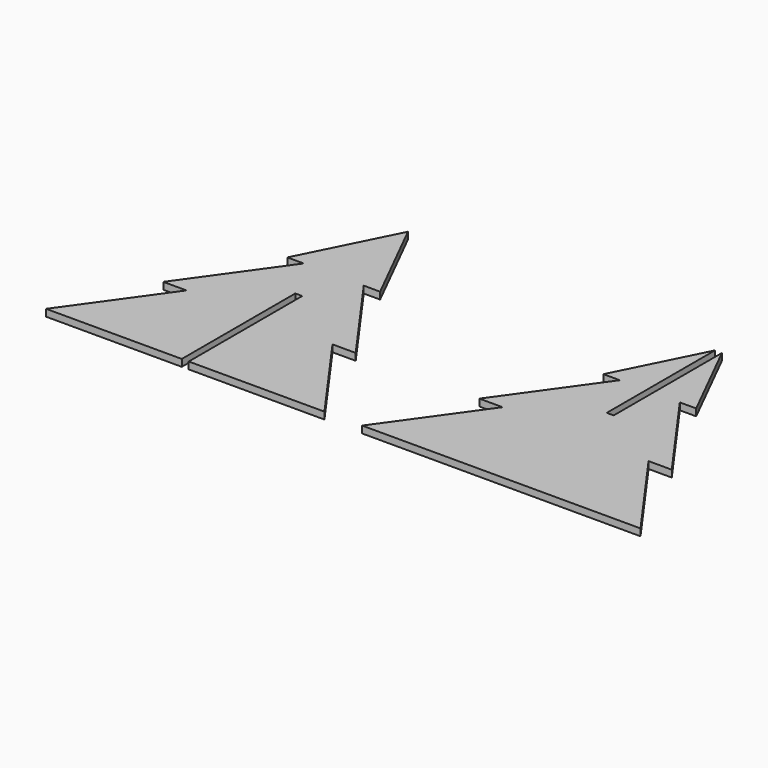
from build123d import *

# Parameters (mm, degrees)
F1_DEPTH = 1.5


with BuildPart() as f1:
    # F0 (on Top) → F1 (new body)
    with BuildSketch(Plane.XY):
        Polygon((-30, 0), (30, 0), (15.736768, 20), (20.736768, 20), (6.473536, 40), (10, 40), (0.75, 58.5), (0.75, 29.341811), (-0.75, 29.341811), (-0.75, 58.5), (-10, 40), (-6.473536, 40), (-20.736768, 20), (-15.736768, 20), align=None)
        Polygon((-61.655392, 40), (-58.128929, 40), (-68.128929, 60), (-78.128929, 40), (-74.602465, 40), (-88.865697, 20), (-83.865697, 20), (-98.128929, 0), (-68.878929, 0), (-68.878929, 30.585837), (-67.378929, 30.585837), (-67.378929, 0), (-38.128929, 0), (-52.392161, 20), (-47.392161, 20), align=None)
    extrude(amount=F1_DEPTH)


solid = f1.part
